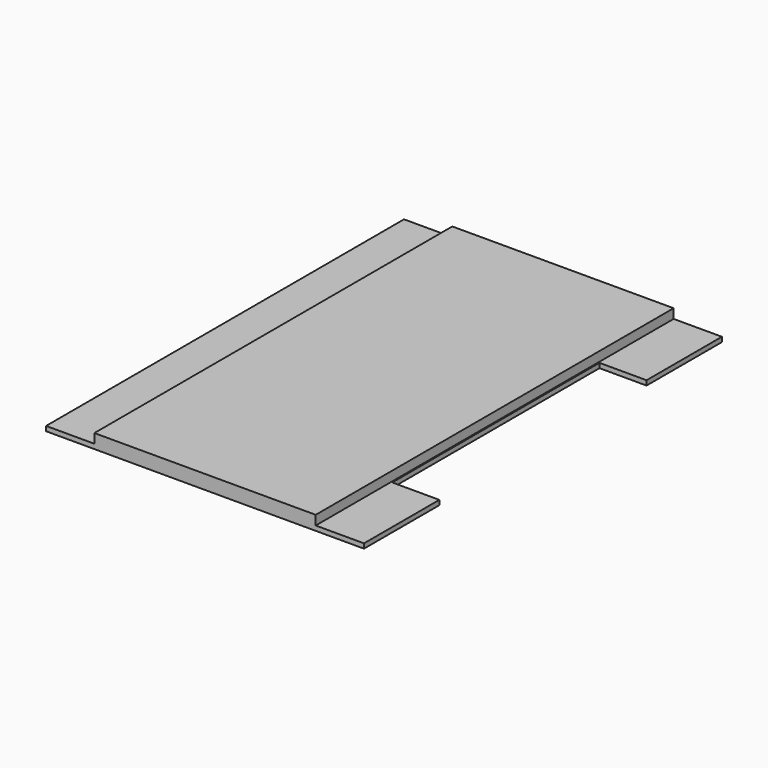
from build123d import *

# Parameters (mm, degrees)
PAD_DEPTH    = 2
SKETCH004_W  = 94
SKETCH004_H  = 190
PAD001_DEPTH = 6


with BuildPart() as part:
    # Sketch001 → Pad (new body)
    with BuildSketch(Plane.XY):
        Polygon((0, 0), (135, 0), (135, 40), (115, 40), (115, 150), (135, 150), (135, 190), (0, 190), align=None)
    extrude(amount=PAD_DEPTH)

    # Sketch004 → Pad001 (join)
    with BuildSketch(Plane.XY):
        with Locations((67.5, 95)):
            Rectangle(SKETCH004_W, SKETCH004_H)
    extrude(amount=PAD001_DEPTH)


solid = part.part
